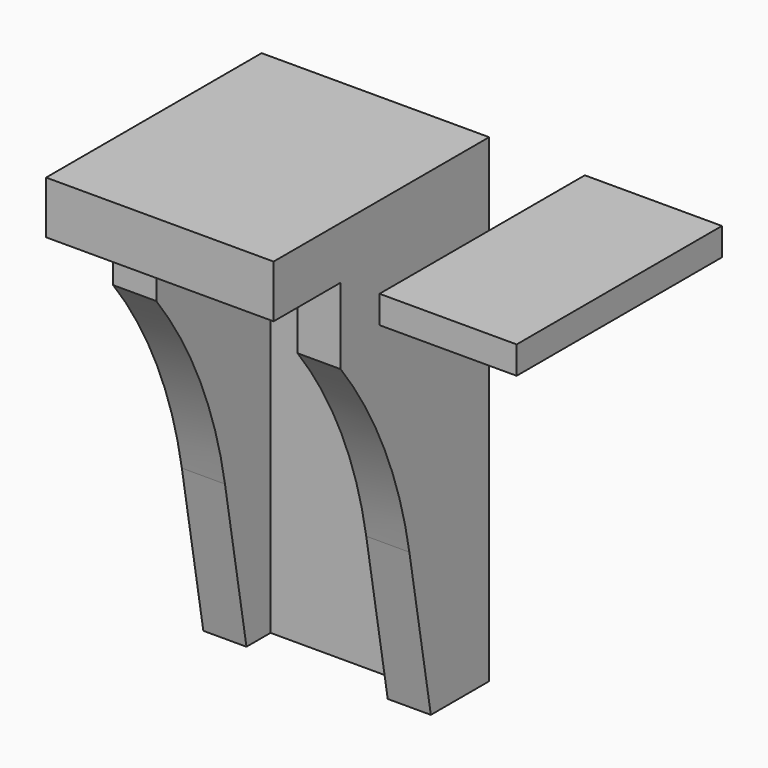
from build123d import *

# Parameters (mm, degrees)
F1_DEPTH = 8.001
F0_W     = 1.2806631903
F0_H     = 12.6610611121
F2_DEPTH = 5.5118
F3_DEPTH = 1.27
F5_DEPTH = 25.4
F6_W     = 4.0718228556
F6_H     = 0.8211005479
F7_DEPTH = 7.62


with BuildPart() as f1:
    # F0 (on Front) → F1 (new body)
    with BuildSketch(Plane.XZ):
        Polygon((3.3782, 7.112), (-3.3782, 7.112), (-3.3782, 5.5490611121), (-2.0975368097, 5.5490611121), (2.0975368097, 5.5490611121), (3.3782, 5.5490611121), align=None)
    extrude(amount=F1_DEPTH)

    # F0 (on Front) → F2 (join)
    with BuildSketch(Plane.XZ):
        with Locations((-2.7378684049, -0.7814694439)):
            Rectangle(F0_W, F0_H)
        with Locations((2.7378684049, -0.7814694439)):
            Rectangle(F0_W, F0_H)
    extrude(amount=F2_DEPTH)

    # F0 (on Front) → F3 (join)
    with BuildSketch(Plane.XZ):
        Polygon((2.0975368097, 5.5490611121), (-2.0975368097, 5.5490611121), (-2.0975368097, -7.112), (0, -7.112), (2.0975368097, -7.112), align=None)
    extrude(amount=F3_DEPTH)

    # F4 (on face) → F5 (cut)
    with BuildSketch(Plane.YZ.offset(3.3782)):
        with BuildLine():
            Line((-5.5118, -7.112), (-2.1635754965, -7.112))
            Line((-2.1635754965, -7.112), (-2.9609058984, -2.5340106804))
            ThreePointArc((-2.9609058984, -2.5340106804), (-3.8845736468, 0.5309912225), (-5.5118, 3.287716303))
            Line((-5.5118, 3.287716303), (-5.5118, -7.112))
        make_face()
    extrude(amount=-F5_DEPTH, mode=Mode.SUBTRACT)


with BuildPart() as f7:
    # F6 (on Front) → F7 (new body)
    with BuildSketch(Plane.XZ):
        with Locations((8.2553818356, 6.6290106624)):
            Rectangle(F6_W, F6_H)
    extrude(amount=F7_DEPTH)


solid = Compound([f1.part, f7.part])
